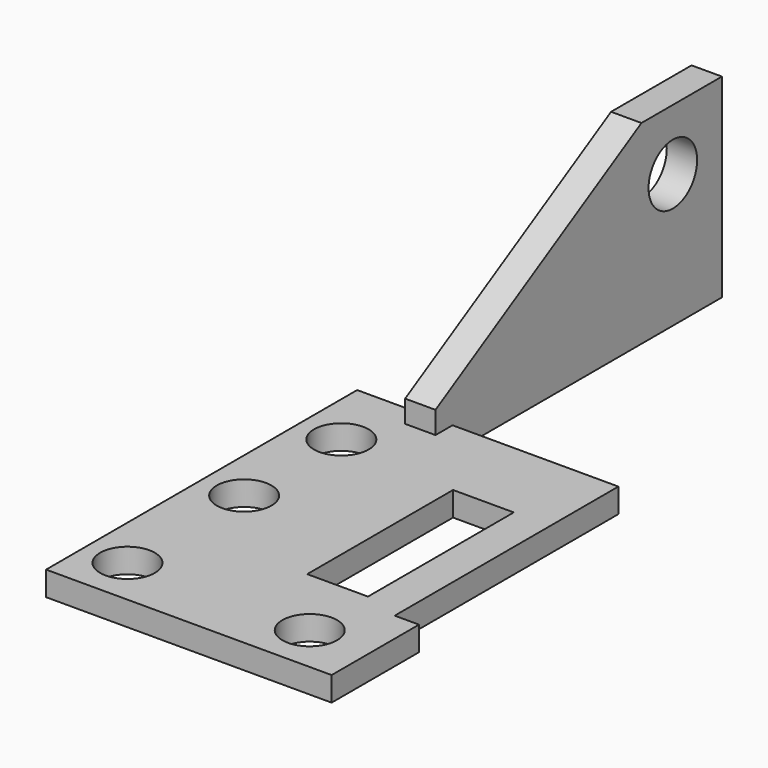
from build123d import *

# Parameters (mm, degrees)
SKETCH028_R        = 2.25
SKETCH028_W        = 5
SKETCH028_H        = 15
PAD012_DEPTH       = 2
SKETCH029_W        = 2.5
SKETCH029_H        = 29.464039
PAD013_DEPTH       = 16
SKETCH030_R        = 2.5
POCKET007005_DEPTH = 18.151
POCKET007010_DEPTH = 5


with BuildPart() as part:
    # Sketch028 → Pad012 (new body)
    with BuildSketch(Plane.XY):
        Polygon((-52, -32), (-75.5, -32), (-75.5, 0), (-54, 0), (-54, -23.010657), (-52, -23.010657), align=None)
        with Locations((-72, -28)):
            Circle(SKETCH028_R, mode=Mode.SUBTRACT)
        with Locations((-72, -16)):
            Circle(SKETCH028_R, mode=Mode.SUBTRACT)
        with Locations((-72, -6)):
            Circle(SKETCH028_R, mode=Mode.SUBTRACT)
        with Locations((-57, -28)):
            Circle(SKETCH028_R, mode=Mode.SUBTRACT)
        with Locations((-59.5, -14.510657)):
            Rectangle(SKETCH028_W, SKETCH028_H, mode=Mode.SUBTRACT)
    extrude(amount=PAD012_DEPTH)

    # Sketch029 → Pad013 (join)
    with BuildSketch(Plane.XY):
        with Locations((-68.9, 12.982019)):
            Rectangle(SKETCH029_W, SKETCH029_H)
    extrude(amount=PAD013_DEPTH)

    # Sketch030 (on DatumPlane) → Pocket007005 (cut, through all)
    with BuildSketch(Plane(origin=(-70.15, -1.75, 0), x_dir=(0, 1, 0), z_dir=(1, 0, 0))):
        with Locations((24.414811, 10.983683)):
            Circle(SKETCH030_R)
    extrude(amount=POCKET007005_DEPTH, mode=Mode.SUBTRACT)

    # Sketch041 (on DatumPlane) → Pocket007010 (cut)
    with BuildSketch(Plane(origin=(-70.15, -1.75, 0), x_dir=(0, 1, 0), z_dir=(1, 0, 0))):
        Polygon((-2.326099, 2.494806), (28.94412, 20.456944), (-2.326099, 20.456944), align=None)
    extrude(amount=POCKET007010_DEPTH, mode=Mode.SUBTRACT)


with BuildPart() as part_1:
    # Body001 placement: moved
    add(part.part.moved(Location((0, 0, 20))))


solid = part_1.part
